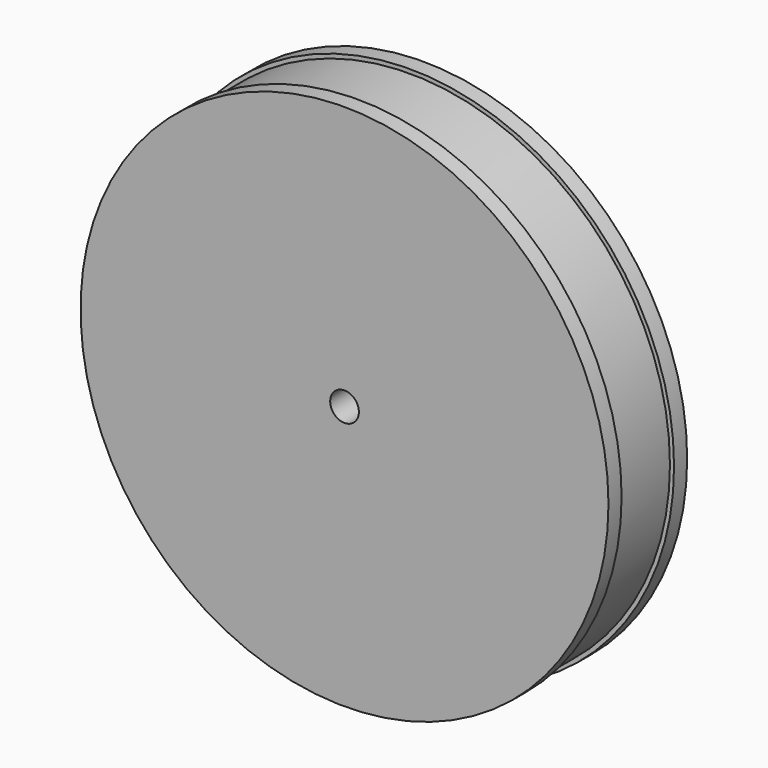
from build123d import *

# Parameters (mm, degrees)
F2_R     = 5
F3_DEPTH = 10
F4_R     = 1.75
F5_DEPTH = 25


with BuildPart() as f1:
    # F0 (on Top) → F1 (revolve)
    with BuildSketch(Plane.XY):
        Polygon((2.124551, 4), (2.124551, 0), (34.324551, 0), (34.324551, 2), (33.824551, 2), (33.824551, 10), (34.324551, 10), (34.324551, 12), (26.324551, 12), (26.324551, 4), align=None)
    revolve(axis=Axis((2.124551, 2, 0), (0, -1, 0)))

    # F2 (on face) → F3 (join)
    with BuildSketch(Plane(origin=(0, 4, 0), x_dir=(-1, 0, 0), z_dir=(0, 1, 0))):
        with Locations((-2.124551, 0)):
            Circle(F2_R)
    extrude(amount=F3_DEPTH)

    # F4 (on face) → F5 (cut)
    with BuildSketch(Plane(origin=(0, 14, 0), x_dir=(-1, 0, 0), z_dir=(0, 1, 0))):
        with Locations((-2.124551, 0)):
            Circle(F4_R)
    extrude(amount=-F5_DEPTH, mode=Mode.SUBTRACT)


solid = f1.part
